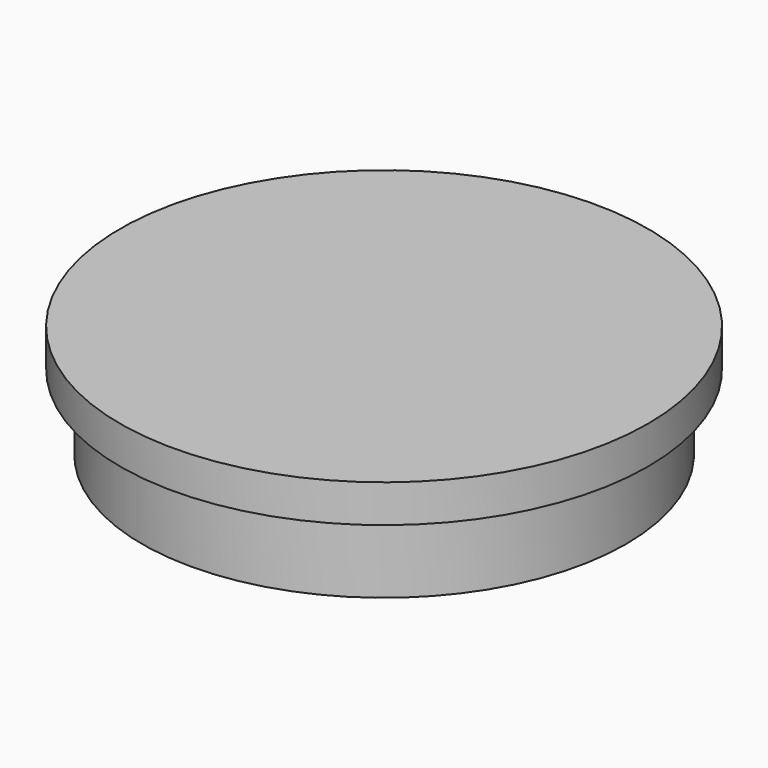
from build123d import *

# Parameters (mm, degrees)
F0_R     = 40.743575646
F0_R_2   = 35.9370755103
F1_DEPTH = 12.7
F0_R_3   = 5.6293955183
F2_R     = 44.45
F2_R_2   = 40.743575646
F2_R_3   = 35.9370755103
F3_DEPTH = 6.35
F4_SCALE = 0.3076


with BuildPart() as f1:
    # F0 (on Top) → F1 (new body)
    with BuildSketch(Plane.XY):
        Circle(F0_R)
        Circle(F0_R_2, mode=Mode.SUBTRACT)
    extrude(amount=F1_DEPTH)


with BuildPart() as f1b:
    # F0 (on Top) → F1, piece 2 (new body)
    with BuildSketch(Plane.XY):
        with BuildLine():
            Line((-19.8951568455, 24.5814528316), (-19.8951568455, 19.5323266089))
            Line((-19.8951568455, 19.5323266089), (-3.9257956669, 19.5323266089))
            add(Edge.make_bspline(
                [(-3.9257956669, 19.5323266089), (-3.438730328, 19.5104746303), (-2.3822290182, 19.4630751498), (-0.3786449133, 18.8510730848), (1.5217501862, 17.7695366524), (3.1620424026, 16.4114883974), (4.7214509943, 14.610312046), (5.4887646841, 12.0416388777), (5.9169250957, 9.5082594869), (5.7040910778, 6.649210774), (5.3912798009, 4.644006255), (3.4674883158, 0.793172229), (0.0828565548, -1.1071295737), (-2.5811872556, -1.6795230915), (-4.5175807143, -1.806500076), (-5.5046128109, -1.8712236779)],
                knots=[0, 0, 0, 0, 0.059216149, 0.1284467073, 0.1996229482, 0.2695794451, 0.3430298998, 0.4209388166, 0.4989278355, 0.5787083991, 0.6477883009, 0.7453590863, 0.8392056624, 0.918038779, 1, 1, 1, 1], degree=3))
            Line((-5.5046128109, -1.8712236779), (-2.7076895349, 2.4654201698))
            add(Edge.make_bspline(
                [(-20.7480546087, 6.5831956454), (-20.7585460718, 6.9917088112), (-20.781182378, 7.8731139097), (-20.5733666547, 9.6138395938), (-19.2712796736, 11.9639407263), (-16.8906951298, 14.2713663404), (-14.9330924971, 15.2362466845), (-12.5939575694, 15.8891147734), (-10.1593680521, 15.8892909143), (-7.5972028093, 15.7798217838), (-4.8132509192, 14.2139633666), (-2.8221318459, 12.3794947125), (-1.5126834746, 9.4308803845), (-1.3371288245, 6.0935091977), (-2.1042610126, 3.4757483807), (-2.5375457377, 2.7502941389), (-2.7076895349, 2.4654201698)],
                knots=[0, 0, 0, 0, 0.0516412436, 0.1114207795, 0.1869094046, 0.2704198006, 0.3383491951, 0.4090002294, 0.480668291, 0.5539731113, 0.6350371126, 0.7104903951, 0.7917355804, 0.8766274376, 0.9515536205, 1, 1, 1, 1], degree=3))
            Line((-20.7480546087, 6.5831956454), (-15.4742142186, 6.5831956454))
            add(Edge.make_bspline(
                [(-7.8517684109, 3.21552063), (-7.5741734312, 3.684653407), (-6.9703547629, 4.7051001235), (-6.7127666006, 7.0888011395), (-7.0842992475, 8.9693634449), (-8.5291037384, 10.6546081618), (-11.0575844103, 11.117951687), (-13.1489417529, 10.7842585024), (-14.5808251241, 9.4976987447), (-15.3938474452, 8.0727306079), (-15.4468377745, 7.065145422), (-15.4742142186, 6.5831956454)],
                knots=[0, 0, 0, 0, 0.1045393686, 0.227056894, 0.3371709022, 0.4518540569, 0.5781303241, 0.6933696298, 0.8020275151, 0.9032593864, 1, 1, 1, 1], degree=3))
            Line((-7.8517684109, 3.21552063), (-11.4010088146, -1.9821331371))
            Line((-11.4010088146, -1.9821331371), (-19.8985431343, -1.9821331371))
            Line((-19.8985431343, -1.9821331371), (-19.8985431343, -6.8908896075))
            Line((-19.8985431343, -6.8908896075), (-14.752974447, -6.8908896075))
            Line((-14.752974447, -6.8908896075), (-23.7554050982, -20.0744196773))
            Line((-23.7554050982, -20.0744196773), (-1.9094585441, -20.0744196773))
            Line((-1.9094585441, -20.0744196773), (-1.9094585441, -15.2506930754))
            Line((-1.9094585441, -15.2506930754), (-14.7799476981, -15.2506930754))
            Line((-14.7799476981, -15.2506930754), (-9.0714196651, -6.8908896075))
            Line((-9.0714196651, -6.8908896075), (-4.4958987012, -6.8908896075))
            Line((-4.4958987012, -6.8908896075), (10.4700345807, -26.71560587))
            Line((10.4700345807, -26.71560587), (17.302600693, -26.71560587))
            Line((17.302600693, -26.71560587), (12.3066055055, -20.2603686264))
            Line((12.3066055055, -20.2603686264), (25.4823547118, -0.812960615))
            add(Edge.make_bspline(
                [(25.4823547118, -0.812960615), (25.6566407717, -0.4438653858), (26.0648915746, 0.3774209025), (26.3219014686, 1.6334176353), (26.469575067, 2.3273559579)],
                knots=[0, 0, 0, 0, 0.4445123929, 1, 1, 1, 1], degree=3))
            ThreePointArc((26.469575067, 2.3273559579), (22.5605141403, 13.8593457354), (10.3872726001, 14.1417213007))
            add(Edge.make_bspline(
                [(-4.9626356922, 24.5814528316), (-3.8209935742, 24.5254755311), (-1.5444243858, 24.4138432536), (1.7289639252, 23.3115556385), (4.8284754767, 22.0137660162), (8.2467777318, 19.2932876461), (9.7929211096, 16.2944683265), (10.1999733088, 14.8076985502), (10.3872726001, 14.1417213007)],
                knots=[0, 0, 0, 0, 0.1695360722, 0.338227069, 0.5071766914, 0.6977337704, 0.8649490108, 1, 1, 1, 1], degree=3))
            Line((-4.9626356922, 24.5814528316), (-19.8951568455, 24.5814528316))
        make_face()
        with BuildLine():
            add(Edge.make_bspline(
                [(1.2859506794, -6.0207749494), (1.9026372633, -5.7643806976), (3.1816231291, -5.2478686438), (5.162946829, -4.1116478611), (6.8146264338, -2.8317200408), (7.614077877, -1.8507351717), (8.0111209502, -1.3775103922)],
                knots=[0, 0, 0, 0, 0.2484970236, 0.5115162741, 0.7626074527, 1, 1, 1, 1], degree=3))
            ThreePointArc((8.0111209502, -1.3775103922), (11.7258217447, -4.3004542916), (16.3408378537, -5.3223296982))
            Line((16.3408378537, -5.3223296982), (8.946699456, -15.9190932945))
            Line((8.946699456, -15.9190932945), (1.2859506794, -6.0207749494))
        make_face(mode=Mode.SUBTRACT)
        with Locations((16.2720531486, 5.2991794645)):
            Circle(F0_R_3, mode=Mode.SUBTRACT)
    extrude(amount=F1_DEPTH)


with BuildPart() as f3:
    # F2 (on face) → F3 (new body)
    with BuildSketch(Plane.XY.offset(12.7)):
        Circle(F2_R)
        Circle(F2_R_2, mode=Mode.SUBTRACT)
        Circle(F2_R_2)
        Circle(F2_R_3, mode=Mode.SUBTRACT)
        Circle(F2_R_3)
    extrude(amount=F3_DEPTH)


with BuildPart() as f1_1:
    # F4: moved
    add(f1.part.scale(F4_SCALE))


with BuildPart() as f1b_1:
    # F4: moved
    add(f1b.part.scale(F4_SCALE))


with BuildPart() as f3_1:
    # F4: moved
    add(f3.part.scale(F4_SCALE))


solid = Compound([f1_1.part, f1b_1.part, f3_1.part])
